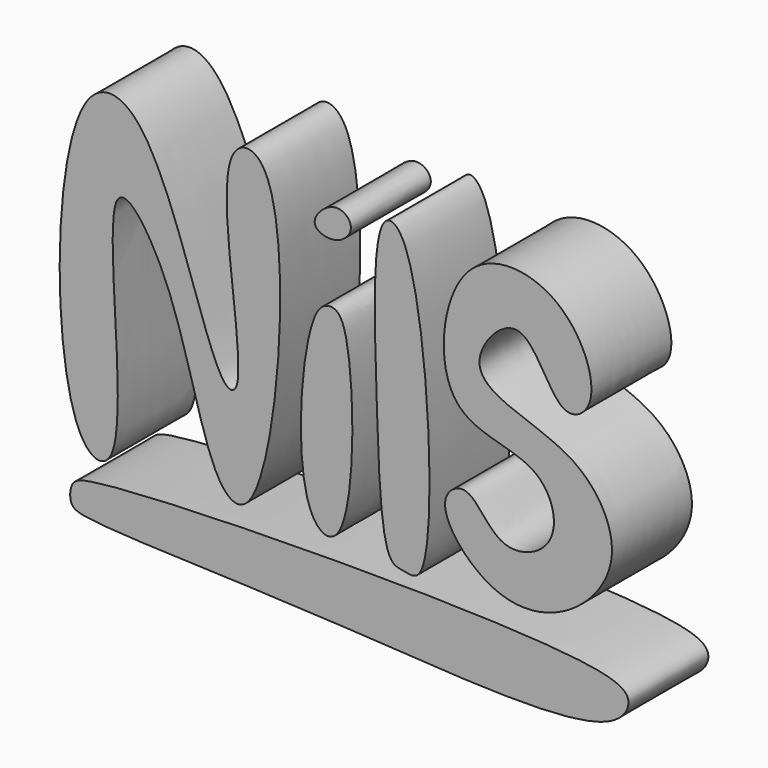
from build123d import *

# Parameters (mm, degrees)
F1_DEPTH = 25.4
F3_DEPTH = 25.4
F4_DEPTH = 25.4


with BuildPart() as f1:
    # F0 (on Front) → F1 (new body)
    with BuildSketch(Plane.XZ):
        with BuildLine():
            add(Edge.make_bspline(
                [(-71.0677057505, 25.1796171069), (-79.6851942921, 11.2813237151), (-79.4922507385, -52.296427635), (-57.2781972584, -56.4485741786), (-70.6732690222, 23.4034964111), (-46.1517082169, -9.5786047173), (-40.2897797019, -50.2024456687), (-23.0560153356, -55.5163551736), (-16.7250168472, 29.7823165088), (-41.2457216692, 29.3011201684), (-28.4545996072, -25.6952616584), (-38.8331935186, -28.725639826), (-51.5253792497, 30.0731555684), (-67.3987503711, 31.0969116943), (-71.0677057505, 25.1796171069)],
                knots=[0, 0, 0, 0, 0.1354361304, 0.1778608906, 0.2963890788, 0.3629244511, 0.4672176045, 0.5080367688, 0.643544263, 0.6876996188, 0.7989842123, 0.8259107175, 0.9423371303, 1, 1, 1, 1], degree=3))
        make_face()
    extrude(amount=F1_DEPTH)


with BuildPart() as f3:
    # F2 (on Front) → F3 (new body)
    with BuildSketch(Plane.XZ):
        with BuildLine():
            add(Edge.make_bspline(
                [(-12.6817980781, -3.5298531875), (-16.2144420782, -11.7392894924), (-18.8074765917, -48.2201222145), (-1.8545819426, -56.1720309106), (-2.4532303446, -3.0515249516), (-8.583570106, 0.7338203049), (-11.451896898, -0.6717119768), (-12.6817980781, -3.5298531875)],
                knots=[0, 0, 0, 0, 0.3198393811, 0.4489162605, 0.7772938261, 0.888646908, 1, 1, 1, 1], degree=3))
        make_face()
    extrude(amount=F3_DEPTH)


with BuildPart() as f3b:
    # F2 (on Front) → F3, piece 2 (new body)
    with BuildSketch(Plane.XZ):
        with BuildLine():
            add(Edge.make_bspline(
                [(-12.6817980781, 17.4139421433), (-12.4421590686, 15.7244893492), (-7.0046533258, 13.8946430557), (-1.6813885059, 19.5020253343), (-7.5876311364, 24.7596843485), (-12.9559644829, 19.3468127536), (-12.6817980781, 17.4139421433)],
                knots=[0, 0, 0, 0, 0.2430996472, 0.4912056832, 0.7218743458, 1, 1, 1, 1], degree=3))
        make_face()
    extrude(amount=F3_DEPTH)


with BuildPart() as f3c:
    # F2 (on Front) → F3, piece 3 (new body)
    with BuildSketch(Plane.XZ):
        with BuildLine():
            add(Edge.make_bspline(
                [(5.2027897909, 23.5323533416), (1.7272757997, 19.8776248885), (3.1417265268, -18.2764069082), (4.2453699472, -52.8368511816), (10.0992098161, -52.980390301), (19.3559292258, -55.9519616444), (15.3985669534, 20.1205238706), (6.5832505534, 24.9839973975), (5.2027897909, 23.5323533416)],
                knots=[0, 0, 0, 0, 0.236445065, 0.4508347323, 0.5203471191, 0.5953232173, 0.9060849314, 1, 1, 1, 1], degree=3))
        make_face()
    extrude(amount=F3_DEPTH)


with BuildPart() as f3d:
    # F2 (on Front) → F3, piece 4 (new body)
    with BuildSketch(Plane.XZ):
        with BuildLine():
            add(Edge.make_bspline(
                [(38.8540551066, 10.1189129055), (43.5592302987, 9.1971010757), (48.6067971759, -7.898040063), (61.1141601762, -0.0715011312), (51.8072517493, 23.8955153776), (21.1807154743, 26.476313557), (16.3675960592, -17.6135264212), (45.7629013205, -15.6570142799), (50.9126318819, -35.7605702425), (33.6938448627, -42.5826660672), (27.0644680723, -26.8552947367), (16.3791933909, -34.6100312917), (32.0315029418, -53.5242807461), (52.9043282089, -50.8200617534), (66.8658045102, -32.9092990867), (56.5632625753, -13.8687545744), (39.4853456917, -9.0946500825), (24.1767571333, -1.7957129842), (34.7095663132, 10.9308781654), (38.8540551066, 10.1189129055)],
                knots=[0, 0, 0, 0, 0.0614990929, 0.1011080215, 0.1678085058, 0.2363071466, 0.316361766, 0.3844777261, 0.4394256075, 0.490824008, 0.5427356692, 0.5797922235, 0.6436717623, 0.7073703905, 0.7709483298, 0.8322392355, 0.8945934186, 0.9458293706, 1, 1, 1, 1], degree=3))
        make_face()
    extrude(amount=F3_DEPTH)


with BuildPart() as f4:
    # F0 (on Front) → F4 (new body)
    with BuildSketch(Plane.XZ):
        with BuildLine():
            add(Edge.make_bspline(
                [(-70.8067119122, -67.3025250435), (-62.2859599314, -68.6779957301), (-8.9057331662, -69.1859353062), (60.3704754675, -75.8528582705), (69.026044893, -63.1849836839), (57.319394552, -54.7503131309), (-68.1198635262, -56.4469132454), (-74.8803923203, -60.649203583), (-75.0894610633, -66.0891911199), (-73.0403220293, -66.9419623551), (-70.8067119122, -67.3025250435)],
                knots=[0, 0, 0, 0, 0.1946961489, 0.4043989598, 0.476178466, 0.5564893198, 0.8361214732, 0.9006947709, 0.9489628041, 1, 1, 1, 1], degree=3))
        make_face()
    extrude(amount=F4_DEPTH)


solid = Compound([f1.part, f3.part, f3b.part, f3c.part, f3d.part, f4.part])
